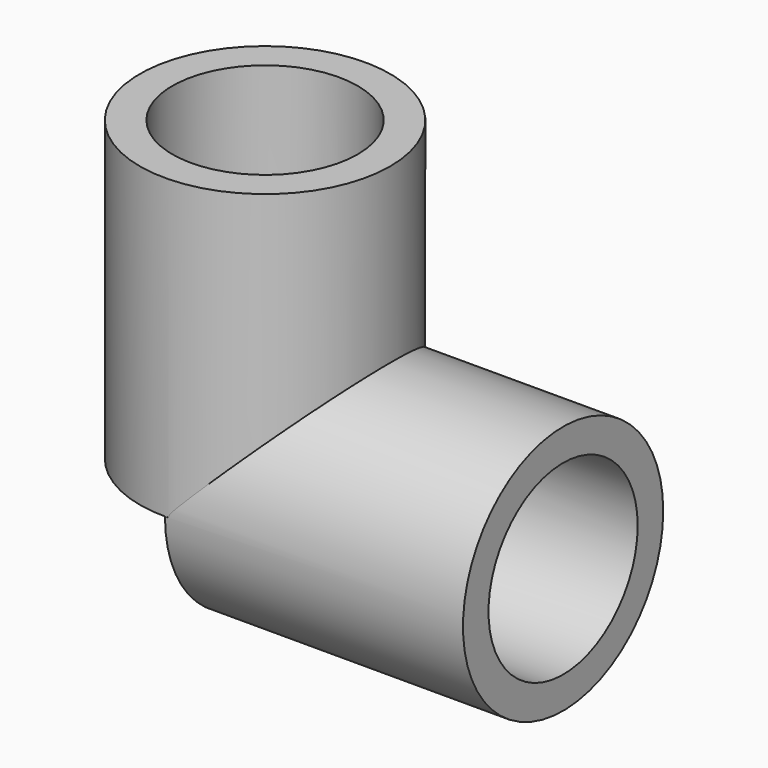
from build123d import *

# Parameters (mm, degrees)
F0_R     = 10.668
F0_R_2   = 7.8994
F1_DEPTH = 25.4
F2_R     = 10.663468
F2_R_2   = 7.944748
F3_DEPTH = 25.4


with BuildPart() as f1:
    # F0 (on Top) → F1 (new body)
    with BuildSketch(Plane.XY):
        Circle(F0_R)
        Circle(F0_R_2, mode=Mode.SUBTRACT)
    extrude(amount=F1_DEPTH)

    # F2 (on Right) → F3 (join)
    with BuildSketch(Plane.YZ):
        Circle(F2_R)
        Circle(F2_R_2, mode=Mode.SUBTRACT)
    extrude(amount=F3_DEPTH)


solid = f1.part
